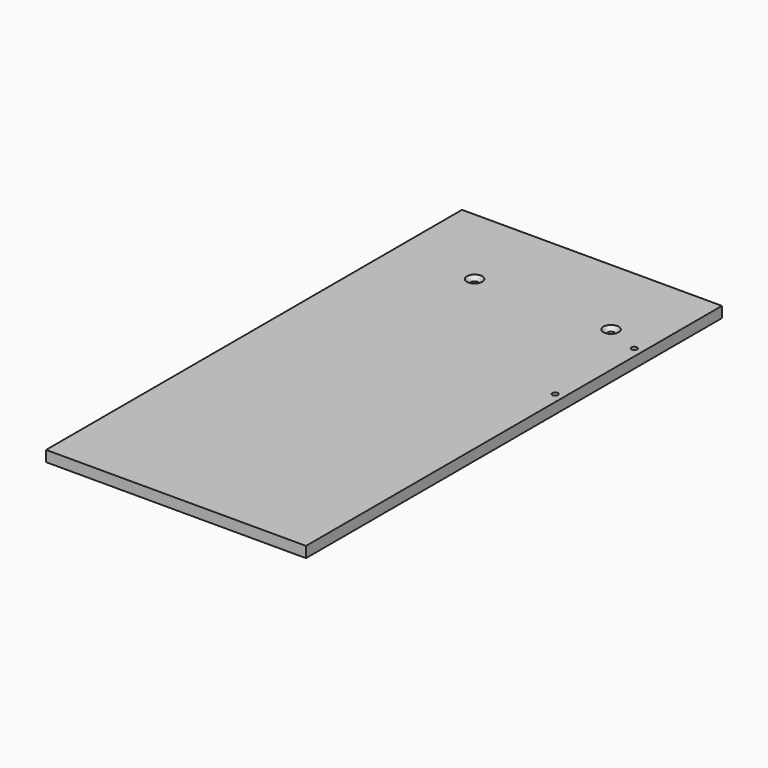
from build123d import *

# Parameters (mm, degrees)
F0_W           = 152.4
F0_H           = 304.8
F1_DEPTH       = 6.35
F3_D           = 4.4
F3_CSINK_D     = 8.96
F3_CSINK_ANGLE = 90
F5_D           = 3.3


with BuildPart() as f1:
    # F0 (on Top) → F1 (new body)
    with BuildSketch(Plane.XY):
        with Locations((76.2, 152.4)):
            Rectangle(F0_W, F0_H)
    extrude(amount=-F1_DEPTH)

    # F3 (through all)
    with Locations(Plane.XY):
        with Locations((127.4, 254.8), (47.4, 254.8)):
            CounterSinkHole(F3_D / 2, F3_CSINK_D / 2, counter_sink_angle=F3_CSINK_ANGLE)

    # F5 (through all)
    with Locations(Plane.XY):
        with Locations((147.4, 246.8), (147.4, 188.8)):
            Hole(F5_D / 2)


solid = f1.part
